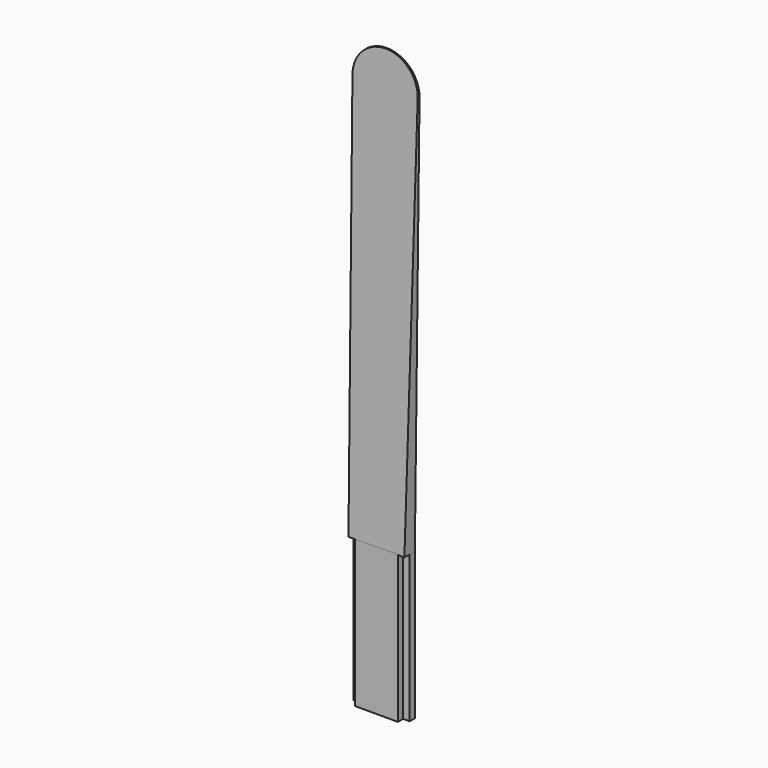
from build123d import *

# Parameters (mm, degrees)
PAD003_DEPTH    = 2
POCKET004_DEPTH = 22.5
POCKET005_DEPTH = 10.058462


with BuildPart() as part:
    # Sketch010 → Pad003 (new body)
    with BuildSketch(Plane.XZ):
        with BuildLine():
            Line((-4.284857, 0), (4.284857, 0))
            Line((4.284857, 0), (4.284857, 22.5))
            Line((4.284857, 22.5), (5, 84))
            ThreePointArc((5, 84), (0, 89), (-5, 84))
            Line((-4.284857, 22.5), (-5, 84))
            Line((-4.284857, 22.5), (-4.284857, 0))
        make_face()
    extrude(amount=PAD003_DEPTH)

    # Sketch011 (on Face1 of Pad003) → Pocket004 (cut)
    with BuildSketch(Plane(origin=(0, 0, 0), x_dir=(1, 0, 0), z_dir=(0, 0, -1))):
        Polygon((-3.284857, 2), (-3.284857, 1), (-8.284857, 1), (-8.284857, 5.501038), align=None)
        Polygon((8.284857, 5.501038), (3.284857, 2), (3.284857, 1), (8.284857, 1), align=None)
    extrude(amount=-POCKET004_DEPTH, mode=Mode.SUBTRACT)

    # Sketch012 (on Face12 of Pocket004) → Pocket005 (cut, through all)
    with BuildSketch(Plane(origin=(-4.022675, 0, -0.046777), x_dir=(0.011628, 0, -0.999932), z_dir=(-0.999932, 0, -0.011628))):
        Polygon((-89.452459, 0.2), (-22.548301, 2), (-89.452459, 14.03), align=None)
    extrude(amount=-POCKET005_DEPTH, mode=Mode.SUBTRACT)


with BuildPart() as part_1:
    # Body001 placement: moved
    add(part.part.moved(Location((0, 25, 0))))


solid = part_1.part
